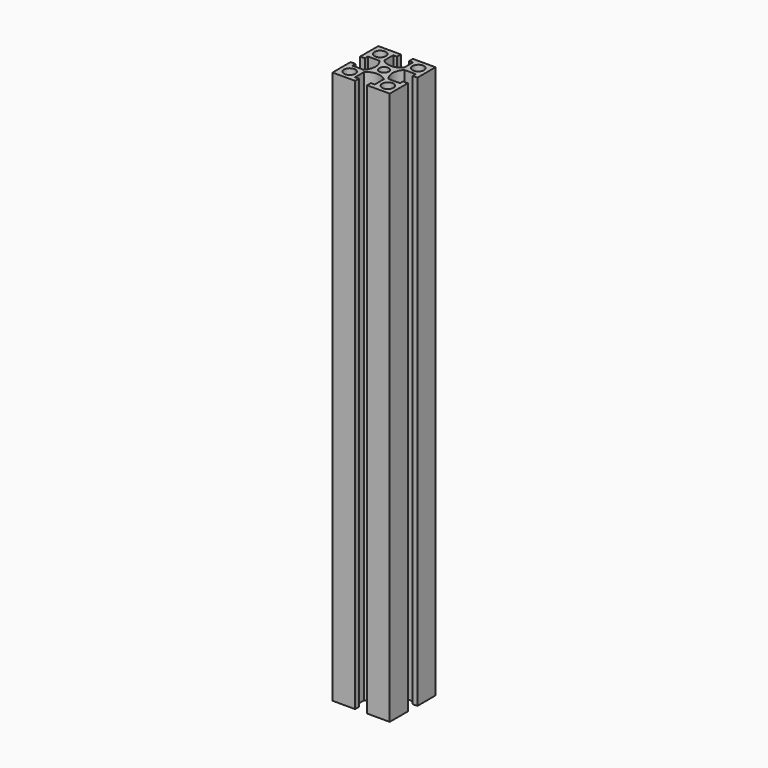
from build123d import *

# Parameters (mm, degrees)
F0_R     = 3
F0_R_2   = 2.5
F1_DEPTH = 290


with BuildPart() as f1:
    # F0 (on Top) → F1 (new body)
    with BuildSketch(Plane.XY):
        with BuildLine():
            Line((-15, 15), (-15, 3.15))
            Line((-15, 3.15), (-12.5, 3.15))
            Line((-12.5, 3.15), (-12.5, 5.15))
            Line((-12.5, 5.15), (-6.547707, 5.15))
            ThreePointArc((-6.547707, 5.15), (-4.5, 0), (-6.547707, -5.15))
            Line((-6.547707, -5.15), (-12.5, -5.15))
            Line((-12.5, -5.15), (-12.5, -3.15))
            Line((-12.5, -3.15), (-15, -3.15))
            Line((-15, -3.15), (-15, -15))
            Line((-15, -15), (-3.15, -15))
            Line((-3.15, -15), (-3.15, -12.5))
            Line((-3.15, -12.5), (-5.15, -12.5))
            Line((-5.15, -12.5), (-5.15, -6.547707))
            ThreePointArc((-5.15, -6.547707), (0, -4.5), (5.15, -6.547707))
            Line((5.15, -6.547707), (5.15, -12.5))
            Line((5.15, -12.5), (3.15, -12.5))
            Line((3.15, -12.5), (3.15, -15))
            Line((3.15, -15), (15, -15))
            Line((15, -15), (15, -3.15))
            Line((15, -3.15), (12.5, -3.15))
            Line((12.5, -3.15), (12.5, -5.15))
            Line((12.5, -5.15), (6.547707, -5.15))
            ThreePointArc((6.547707, -5.15), (4.5, 0), (6.547707, 5.15))
            Line((6.547707, 5.15), (12.5, 5.15))
            Line((12.5, 5.15), (12.5, 3.15))
            Line((12.5, 3.15), (15, 3.15))
            Line((15, 3.15), (15, 15))
            Line((15, 15), (3.15, 15))
            Line((3.15, 15), (3.15, 12.5))
            Line((3.15, 12.5), (5.15, 12.5))
            Line((5.15, 12.5), (5.15, 6.547707))
            ThreePointArc((5.15, 6.547707), (0, 4.5), (-5.15, 6.547707))
            Line((-5.15, 6.547707), (-5.15, 12.5))
            Line((-5.15, 12.5), (-3.15, 12.5))
            Line((-3.15, 12.5), (-3.15, 15))
            Line((-3.15, 15), (-15, 15))
        make_face()
        with Locations((-10, -10)):
            Circle(F0_R, mode=Mode.SUBTRACT)
        with Locations((10, -10)):
            Circle(F0_R, mode=Mode.SUBTRACT)
        with Locations((-10, 10)):
            Circle(F0_R, mode=Mode.SUBTRACT)
        Circle(F0_R_2, mode=Mode.SUBTRACT)
        with Locations((10, 10)):
            Circle(F0_R, mode=Mode.SUBTRACT)
    extrude(amount=F1_DEPTH)


solid = f1.part
